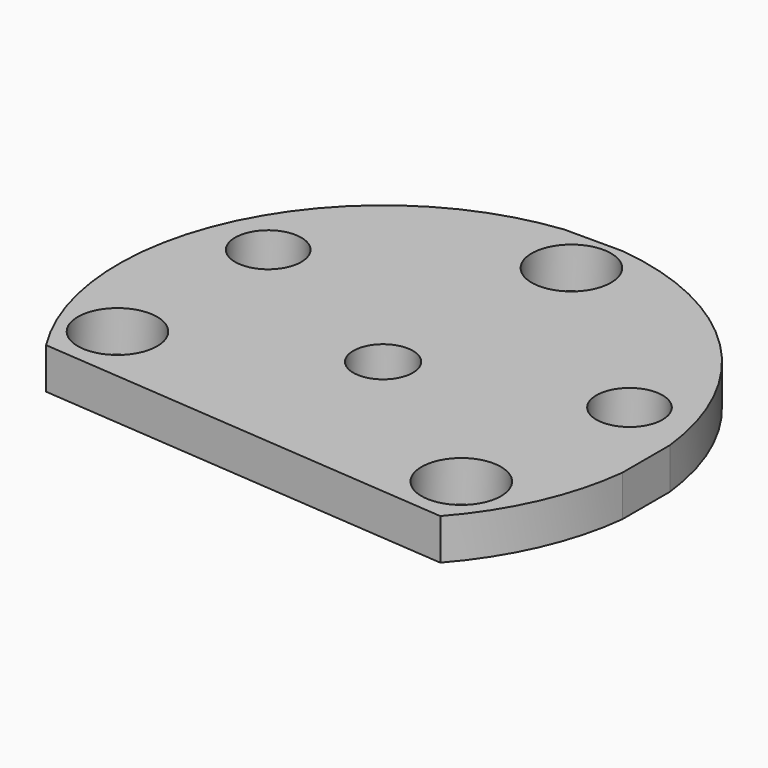
from build123d import *

# Parameters (mm, degrees)
F0_R     = 3
F0_R_2   = 2.5
F0_R_3   = 2.25
F1_DEPTH = 3.1


with BuildPart() as f1:
    # F0 (on Top) → F1 (new body)
    with BuildSketch(Plane.XY):
        with BuildLine():
            ThreePointArc((29.159625, -4.46566), (32.476252, 0.673465), (34.084613, 6.574635))
            Line((34.084613, 6.574635), (34.084613, 11.068079))
            ThreePointArc((34.084613, 11.068079), (28.342014, 22.974813), (16.426098, 28.698335))
            Line((16.426098, 28.698335), (11.996317, 28.698335))
            ThreePointArc((11.996317, 28.698335), (-3.833381, 17.446484), (-2.647776, -1.938506))
            Line((-2.647776, -1.938506), (29.159625, -4.46566))
        make_face()
        with Locations((-0.443478, 2.051086)):
            Circle(F0_R, mode=Mode.SUBTRACT)
        with Locations((27.368436, -0.239537)):
            Circle(F0_R, mode=Mode.SUBTRACT)
        with Locations((-0.025214, 15.76334)):
            Circle(F0_R_2, mode=Mode.SUBTRACT)
        with Locations((14.211208, 8.821357)):
            Circle(F0_R_3, mode=Mode.SUBTRACT)
        with Locations((29.20861, 13.34557)):
            Circle(F0_R_2, mode=Mode.SUBTRACT)
        with Locations((15.398228, 25.120057)):
            Circle(F0_R, mode=Mode.SUBTRACT)
    extrude(amount=F1_DEPTH)


solid = f1.part
